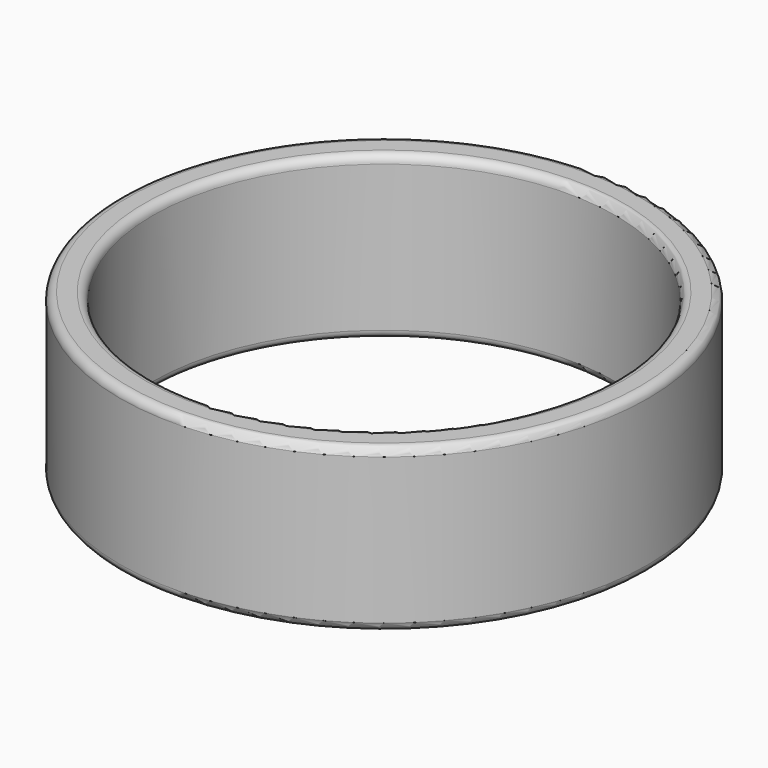
from build123d import *

# Parameters (mm, degrees)
F0_R     = 16.25
F0_R_2   = 14.25
F1_DEPTH = 1.5
F2_R     = 16.25
F2_R_2   = 14.25
F3_DEPTH = 7
F4_R     = 16.25
F4_R_2   = 14.25
F5_DEPTH = 1.5
F6_R     = 0.5


with BuildPart() as f1:
    # F0 (on Top) → F1 (new body)
    with BuildSketch(Plane.XY):
        Circle(F0_R)
        Circle(F0_R_2, mode=Mode.SUBTRACT)
    extrude(amount=F1_DEPTH)

    # F2 (on face) → F3 (join)
    with BuildSketch(Plane.XY.offset(1.5)):
        Circle(F2_R)
        with BuildLine():
            ThreePointArc((-9.2576177236, -12.7420176614), (-10.1239048526, -12.0651999791), (-10.9408693347, -11.3296018553))
            Line((-10.9408693347, -11.3296018553), (-10.2462109643, -10.610262055))
            ThreePointArc((-10.2462109643, -10.610262055), (-9.4811172429, -11.299155536), (-8.6698324713, -11.933000667))
            Line((-8.6698324713, -11.933000667), (-9.2576177236, -12.7420176614))
        make_face(mode=Mode.SUBTRACT)
        with BuildLine():
            ThreePointArc((-11.3296018553, -10.9408693347), (-12.0651999791, -10.1239048526), (-12.7420176614, -9.2576177236))
            Line((-12.7420176614, -9.2576177236), (-11.933000667, -8.6698324713))
            ThreePointArc((-11.933000667, -8.6698324713), (-11.299155536, -9.4811172429), (-10.610262055, -10.2462109643))
            Line((-10.610262055, -10.2462109643), (-11.3296018553, -10.9408693347))
        make_face(mode=Mode.SUBTRACT)
        with BuildLine():
            ThreePointArc((-4.3412883541, -15.139871711), (-5.3868172574, -14.8001587774), (-6.4061021284, -14.3883409579))
            Line((-6.4061021284, -14.3883409579), (-5.9993654854, -13.4747955002))
            ThreePointArc((-5.9993654854, -13.4747955002), (-5.0447971141, -13.8604661566), (-4.0656509983, -14.1786100151))
            Line((-4.0656509983, -14.1786100151), (-4.3412883541, -15.139871711))
        make_face(mode=Mode.SUBTRACT)
        with BuildLine():
            ThreePointArc((-6.9043455619, -14.1560062292), (-7.875, -13.6399001096), (-8.8072882297, -13.0573417677))
            Line((-8.8072882297, -13.0573417677), (-8.2480953262, -12.2283041952))
            ThreePointArc((-8.2480953262, -12.2283041952), (-7.375, -12.7738747058), (-6.4659744151, -13.2572121829))
            Line((-6.4659744151, -13.2572121829), (-6.9043455619, -14.1560062292))
        make_face(mode=Mode.SUBTRACT)
        with BuildLine():
            ThreePointArc((-1.6463232965, -15.6637198521), (-2.7349587983, -15.5107221099), (-3.8102698557, -15.2821576888))
            Line((-3.8102698557, -15.2821576888), (-3.5683479601, -14.3118619626))
            ThreePointArc((-3.5683479601, -14.3118619626), (-2.5613106206, -14.5259143569), (-1.5417948332, -14.6691979567))
            Line((-1.5417948332, -14.6691979567), (-1.6463232965, -15.6637198521))
        make_face(mode=Mode.SUBTRACT)
        with BuildLine():
            ThreePointArc((1.0986644615, -15.7116337916), (0, -15.75), (-1.0986644615, -15.7116337916))
            Line((-1.0986644615, -15.7116337916), (-1.0289079877, -14.7140697413))
            ThreePointArc((-1.0289079877, -14.7140697413), (0, -14.75), (1.0289079877, -14.7140697413))
            Line((1.0289079877, -14.7140697413), (1.0986644615, -15.7116337916))
        make_face(mode=Mode.SUBTRACT)
        with BuildLine():
            ThreePointArc((-13.0573417677, -8.8072882297), (-13.6399001096, -7.875), (-14.1560062292, -6.9043455619))
            Line((-14.1560062292, -6.9043455619), (-13.2572121829, -6.4659744151))
            ThreePointArc((-13.2572121829, -6.4659744151), (-12.7738747058, -7.375), (-12.2283041952, -8.2480953262))
            Line((-12.2283041952, -8.2480953262), (-13.0573417677, -8.8072882297))
        make_face(mode=Mode.SUBTRACT)
        with BuildLine():
            ThreePointArc((-14.3883409579, -6.4061021284), (-14.8001587774, -5.3868172574), (-15.139871711, -4.3412883541))
            Line((-15.139871711, -4.3412883541), (-14.1786100151, -4.0656509983))
            ThreePointArc((-14.1786100151, -4.0656509983), (-13.8604661566, -5.0447971141), (-13.4747955002, -5.9993654854))
            Line((-13.4747955002, -5.9993654854), (-14.3883409579, -6.4061021284))
        make_face(mode=Mode.SUBTRACT)
        with BuildLine():
            ThreePointArc((-15.2821576888, -3.8102698557), (-15.5107221099, -2.7349587983), (-15.6637198521, -1.6463232965))
            Line((-15.6637198521, -1.6463232965), (-14.6691979567, -1.5417948332))
            ThreePointArc((-14.6691979567, -1.5417948332), (-14.5259143569, -2.5613106206), (-14.3118619626, -3.5683479601))
            Line((-14.3118619626, -3.5683479601), (-15.2821576888, -3.8102698557))
        make_face(mode=Mode.SUBTRACT)
        with BuildLine():
            ThreePointArc((3.8102698557, -15.2821576888), (2.7349587983, -15.5107221099), (1.6463232965, -15.6637198521))
            Line((1.6463232965, -15.6637198521), (1.5417948332, -14.6691979567))
            ThreePointArc((1.5417948332, -14.6691979567), (2.5613106206, -14.5259143569), (3.5683479601, -14.3118619626))
            Line((3.5683479601, -14.3118619626), (3.8102698557, -15.2821576888))
        make_face(mode=Mode.SUBTRACT)
        with BuildLine():
            ThreePointArc((6.4061021284, -14.3883409579), (5.3868172574, -14.8001587774), (4.3412883541, -15.139871711))
            Line((4.3412883541, -15.139871711), (4.0656509983, -14.1786100151))
            ThreePointArc((4.0656509983, -14.1786100151), (5.0447971141, -13.8604661566), (5.9993654854, -13.4747955002))
            Line((5.9993654854, -13.4747955002), (6.4061021284, -14.3883409579))
        make_face(mode=Mode.SUBTRACT)
        with BuildLine():
            ThreePointArc((8.8072882297, -13.0573417677), (7.875, -13.6399001096), (6.9043455619, -14.1560062292))
            Line((6.9043455619, -14.1560062292), (6.4659744151, -13.2572121829))
            ThreePointArc((6.4659744151, -13.2572121829), (7.375, -12.7738747058), (8.2480953262, -12.2283041952))
            Line((8.2480953262, -12.2283041952), (8.8072882297, -13.0573417677))
        make_face(mode=Mode.SUBTRACT)
        with BuildLine():
            ThreePointArc((10.9408693347, -11.3296018553), (10.1239048526, -12.0651999791), (9.2576177236, -12.7420176614))
            Line((9.2576177236, -12.7420176614), (8.6698324713, -11.933000667))
            ThreePointArc((8.6698324713, -11.933000667), (9.4811172429, -11.299155536), (10.2462109643, -10.610262055))
            Line((10.2462109643, -10.610262055), (10.9408693347, -11.3296018553))
        make_face(mode=Mode.SUBTRACT)
        with BuildLine():
            ThreePointArc((12.7420176614, -9.2576177236), (12.0651999791, -10.1239048526), (11.3296018553, -10.9408693347))
            Line((11.3296018553, -10.9408693347), (10.610262055, -10.2462109643))
            ThreePointArc((10.610262055, -10.2462109643), (11.299155536, -9.4811172429), (11.933000667, -8.6698324713))
            Line((11.933000667, -8.6698324713), (12.7420176614, -9.2576177236))
        make_face(mode=Mode.SUBTRACT)
        with BuildLine():
            ThreePointArc((14.1560062292, -6.9043455619), (13.6399001096, -7.875), (13.0573417677, -8.8072882297))
            Line((13.0573417677, -8.8072882297), (12.2283041952, -8.2480953262))
            ThreePointArc((12.2283041952, -8.2480953262), (12.7738747058, -7.375), (13.2572121829, -6.4659744151))
            Line((13.2572121829, -6.4659744151), (14.1560062292, -6.9043455619))
        make_face(mode=Mode.SUBTRACT)
        with BuildLine():
            ThreePointArc((15.139871711, -4.3412883541), (14.8001587774, -5.3868172574), (14.3883409579, -6.4061021284))
            Line((14.3883409579, -6.4061021284), (13.4747955002, -5.9993654854))
            ThreePointArc((13.4747955002, -5.9993654854), (13.8604661566, -5.0447971141), (14.1786100151, -4.0656509983))
            Line((14.1786100151, -4.0656509983), (15.139871711, -4.3412883541))
        make_face(mode=Mode.SUBTRACT)
        with BuildLine():
            ThreePointArc((15.6637198521, -1.6463232965), (15.5107221099, -2.7349587983), (15.2821576888, -3.8102698557))
            Line((15.2821576888, -3.8102698557), (14.3118619626, -3.5683479601))
            ThreePointArc((14.3118619626, -3.5683479601), (14.5259143569, -2.5613106206), (14.6691979567, -1.5417948332))
            Line((14.6691979567, -1.5417948332), (15.6637198521, -1.6463232965))
        make_face(mode=Mode.SUBTRACT)
        with BuildLine():
            ThreePointArc((-15.7116337916, -1.0986644615), (-15.75, 0), (-15.7116337916, 1.0986644615))
            Line((-15.7116337916, 1.0986644615), (-14.7140697413, 1.0289079877))
            ThreePointArc((-14.7140697413, 1.0289079877), (-14.75, 0), (-14.7140697413, -1.0289079877))
            Line((-14.7140697413, -1.0289079877), (-15.7116337916, -1.0986644615))
        make_face(mode=Mode.SUBTRACT)
        with BuildLine():
            ThreePointArc((-15.6637198521, 1.6463232965), (-15.5107221099, 2.7349587983), (-15.2821576888, 3.8102698557))
            Line((-15.2821576888, 3.8102698557), (-14.3118619626, 3.5683479601))
            ThreePointArc((-14.3118619626, 3.5683479601), (-14.5259143569, 2.5613106206), (-14.6691979567, 1.5417948332))
            Line((-14.6691979567, 1.5417948332), (-15.6637198521, 1.6463232965))
        make_face(mode=Mode.SUBTRACT)
        with BuildLine():
            ThreePointArc((-15.139871711, 4.3412883541), (-14.8001587774, 5.3868172574), (-14.3883409579, 6.4061021284))
            Line((-14.3883409579, 6.4061021284), (-13.4747955002, 5.9993654854))
            ThreePointArc((-13.4747955002, 5.9993654854), (-13.8604661566, 5.0447971141), (-14.1786100151, 4.0656509983))
            Line((-14.1786100151, 4.0656509983), (-15.139871711, 4.3412883541))
        make_face(mode=Mode.SUBTRACT)
        with BuildLine():
            ThreePointArc((-14.1560062292, 6.9043455619), (-13.6399001096, 7.875), (-13.0573417677, 8.8072882297))
            Line((-13.0573417677, 8.8072882297), (-12.2283041952, 8.2480953262))
            ThreePointArc((-12.2283041952, 8.2480953262), (-12.7738747058, 7.375), (-13.2572121829, 6.4659744151))
            Line((-13.2572121829, 6.4659744151), (-14.1560062292, 6.9043455619))
        make_face(mode=Mode.SUBTRACT)
        with BuildLine():
            ThreePointArc((-12.7420176614, 9.2576177236), (-12.0651999791, 10.1239048526), (-11.3296018553, 10.9408693347))
            Line((-11.3296018553, 10.9408693347), (-10.610262055, 10.2462109643))
            ThreePointArc((-10.610262055, 10.2462109643), (-11.299155536, 9.4811172429), (-11.933000667, 8.6698324713))
            Line((-11.933000667, 8.6698324713), (-12.7420176614, 9.2576177236))
        make_face(mode=Mode.SUBTRACT)
        with BuildLine():
            ThreePointArc((-10.9408693347, 11.3296018553), (-10.1239048526, 12.0651999791), (-9.2576177236, 12.7420176614))
            Line((-9.2576177236, 12.7420176614), (-8.6698324713, 11.933000667))
            ThreePointArc((-8.6698324713, 11.933000667), (-9.4811172429, 11.299155536), (-10.2462109643, 10.610262055))
            Line((-10.2462109643, 10.610262055), (-10.9408693347, 11.3296018553))
        make_face(mode=Mode.SUBTRACT)
        with BuildLine():
            ThreePointArc((-8.8072882297, 13.0573417677), (-7.875, 13.6399001096), (-6.9043455619, 14.1560062292))
            Line((-6.9043455619, 14.1560062292), (-6.4659744151, 13.2572121829))
            ThreePointArc((-6.4659744151, 13.2572121829), (-7.375, 12.7738747058), (-8.2480953262, 12.2283041952))
            Line((-8.2480953262, 12.2283041952), (-8.8072882297, 13.0573417677))
        make_face(mode=Mode.SUBTRACT)
        with BuildLine():
            ThreePointArc((-6.4061021284, 14.3883409579), (-5.3868172574, 14.8001587774), (-4.3412883541, 15.139871711))
            Line((-4.3412883541, 15.139871711), (-4.0656509983, 14.1786100151))
            ThreePointArc((-4.0656509983, 14.1786100151), (-5.0447971141, 13.8604661566), (-5.9993654854, 13.4747955002))
            Line((-5.9993654854, 13.4747955002), (-6.4061021284, 14.3883409579))
        make_face(mode=Mode.SUBTRACT)
        with BuildLine():
            ThreePointArc((-3.8102698557, 15.2821576888), (-2.7349587983, 15.5107221099), (-1.6463232965, 15.6637198521))
            Line((-1.6463232965, 15.6637198521), (-1.5417948332, 14.6691979567))
            ThreePointArc((-1.5417948332, 14.6691979567), (-2.5613106206, 14.5259143569), (-3.5683479601, 14.3118619626))
            Line((-3.5683479601, 14.3118619626), (-3.8102698557, 15.2821576888))
        make_face(mode=Mode.SUBTRACT)
        Circle(F2_R_2, mode=Mode.SUBTRACT)
        with BuildLine():
            ThreePointArc((15.7116337916, 1.0986644615), (15.75, 0), (15.7116337916, -1.0986644615))
            Line((15.7116337916, -1.0986644615), (14.7140697413, -1.0289079877))
            ThreePointArc((14.7140697413, -1.0289079877), (14.75, 0), (14.7140697413, 1.0289079877))
            Line((14.7140697413, 1.0289079877), (15.7116337916, 1.0986644615))
        make_face(mode=Mode.SUBTRACT)
        with BuildLine():
            ThreePointArc((15.2821576888, 3.8102698557), (15.5107221099, 2.7349587983), (15.6637198521, 1.6463232965))
            Line((15.6637198521, 1.6463232965), (14.6691979567, 1.5417948332))
            ThreePointArc((14.6691979567, 1.5417948332), (14.5259143569, 2.5613106206), (14.3118619626, 3.5683479601))
            Line((14.3118619626, 3.5683479601), (15.2821576888, 3.8102698557))
        make_face(mode=Mode.SUBTRACT)
        with BuildLine():
            ThreePointArc((14.3883409579, 6.4061021284), (14.8001587774, 5.3868172574), (15.139871711, 4.3412883541))
            Line((15.139871711, 4.3412883541), (14.1786100151, 4.0656509983))
            ThreePointArc((14.1786100151, 4.0656509983), (13.8604661566, 5.0447971141), (13.4747955002, 5.9993654854))
            Line((13.4747955002, 5.9993654854), (14.3883409579, 6.4061021284))
        make_face(mode=Mode.SUBTRACT)
        with BuildLine():
            ThreePointArc((13.0573417677, 8.8072882297), (13.6399001096, 7.875), (14.1560062292, 6.9043455619))
            Line((14.1560062292, 6.9043455619), (13.2572121829, 6.4659744151))
            ThreePointArc((13.2572121829, 6.4659744151), (12.7738747058, 7.375), (12.2283041952, 8.2480953262))
            Line((12.2283041952, 8.2480953262), (13.0573417677, 8.8072882297))
        make_face(mode=Mode.SUBTRACT)
        with BuildLine():
            ThreePointArc((1.0289079877, 14.7140697413), (0, 14.75), (-1.0289079877, 14.7140697413))
            Line((-1.0289079877, 14.7140697413), (-1.0986644615, 15.7116337916))
            ThreePointArc((-1.0986644615, 15.7116337916), (0, 15.75), (1.0986644615, 15.7116337916))
            Line((1.0986644615, 15.7116337916), (1.0289079877, 14.7140697413))
        make_face(mode=Mode.SUBTRACT)
        with BuildLine():
            ThreePointArc((1.6463232965, 15.6637198521), (2.7349587983, 15.5107221099), (3.8102698557, 15.2821576888))
            Line((3.8102698557, 15.2821576888), (3.5683479601, 14.3118619626))
            ThreePointArc((3.5683479601, 14.3118619626), (2.5613106206, 14.5259143569), (1.5417948332, 14.6691979567))
            Line((1.5417948332, 14.6691979567), (1.6463232965, 15.6637198521))
        make_face(mode=Mode.SUBTRACT)
        with BuildLine():
            ThreePointArc((6.9043455619, 14.1560062292), (7.875, 13.6399001096), (8.8072882297, 13.0573417677))
            Line((8.8072882297, 13.0573417677), (8.2480953262, 12.2283041952))
            ThreePointArc((8.2480953262, 12.2283041952), (7.375, 12.7738747058), (6.4659744151, 13.2572121829))
            Line((6.4659744151, 13.2572121829), (6.9043455619, 14.1560062292))
        make_face(mode=Mode.SUBTRACT)
        with BuildLine():
            ThreePointArc((4.3412883541, 15.139871711), (5.3868172574, 14.8001587774), (6.4061021284, 14.3883409579))
            Line((6.4061021284, 14.3883409579), (5.9993654854, 13.4747955002))
            ThreePointArc((5.9993654854, 13.4747955002), (5.0447971141, 13.8604661566), (4.0656509983, 14.1786100151))
            Line((4.0656509983, 14.1786100151), (4.3412883541, 15.139871711))
        make_face(mode=Mode.SUBTRACT)
        with BuildLine():
            ThreePointArc((11.3296018553, 10.9408693347), (12.0651999791, 10.1239048526), (12.7420176614, 9.2576177236))
            Line((12.7420176614, 9.2576177236), (11.933000667, 8.6698324713))
            ThreePointArc((11.933000667, 8.6698324713), (11.299155536, 9.4811172429), (10.610262055, 10.2462109643))
            Line((10.610262055, 10.2462109643), (11.3296018553, 10.9408693347))
        make_face(mode=Mode.SUBTRACT)
        with BuildLine():
            ThreePointArc((9.2576177236, 12.7420176614), (10.1239048526, 12.0651999791), (10.9408693347, 11.3296018553))
            Line((10.9408693347, 11.3296018553), (10.2462109643, 10.610262055))
            ThreePointArc((10.2462109643, 10.610262055), (9.4811172429, 11.299155536), (8.6698324713, 11.933000667))
            Line((8.6698324713, 11.933000667), (9.2576177236, 12.7420176614))
        make_face(mode=Mode.SUBTRACT)
    extrude(amount=F3_DEPTH)

    # F4 (on face) → F5 (join)
    with BuildSketch(Plane.XY.offset(8.5)):
        Circle(F4_R)
        Circle(F4_R_2, mode=Mode.SUBTRACT)
    extrude(amount=F5_DEPTH)

    # F6
    f6_edges = [f1.edges().sort_by_distance(p)[0] for p in [
        (-16.25, 0, 10),
        (-14.25, 0, 10),
        (-14.25, 0, 0),
        (-16.25, 0, 0),
    ]]
    fillet(f6_edges, radius=F6_R)


solid = f1.part
